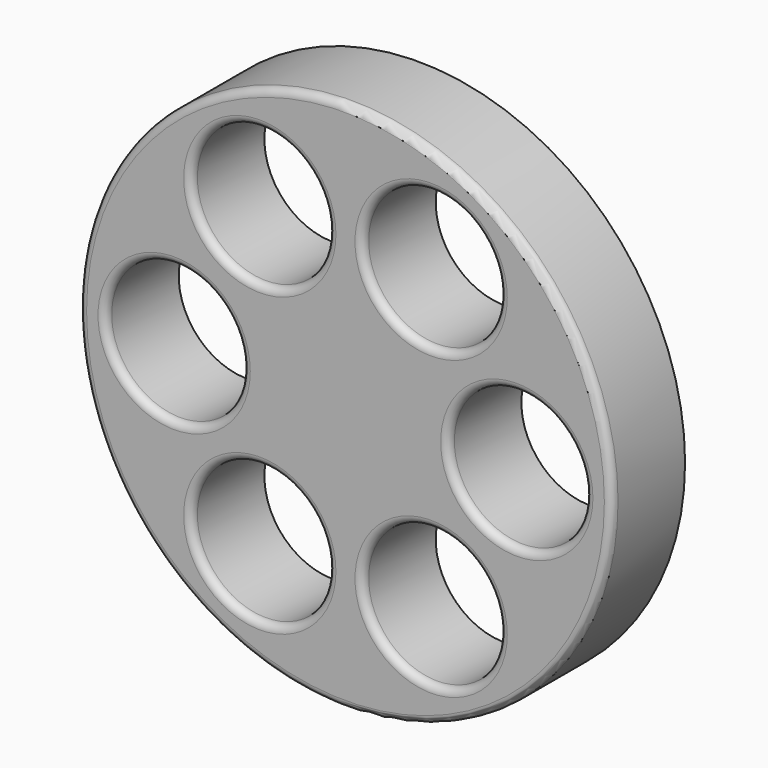
from build123d import *

# Parameters (mm, degrees)
F0_R     = 35
F0_R_2   = 9
F1_DEPTH = 12
F2_R     = 1


with BuildPart() as f1:
    # F0 (on Front) → F1 (new body)
    with BuildSketch(Plane.XZ):
        Circle(F0_R)
        with Locations((-11.25, -19.485572)):
            Circle(F0_R_2, mode=Mode.SUBTRACT)
        with Locations((11.25, -19.485572)):
            Circle(F0_R_2, mode=Mode.SUBTRACT)
        with Locations((-22.5, 0)):
            Circle(F0_R_2, mode=Mode.SUBTRACT)
        with Locations((-11.25, 19.485572)):
            Circle(F0_R_2, mode=Mode.SUBTRACT)
        with Locations((22.5, 0)):
            Circle(F0_R_2, mode=Mode.SUBTRACT)
        with Locations((11.25, 19.485572)):
            Circle(F0_R_2, mode=Mode.SUBTRACT)
    extrude(amount=F1_DEPTH)

    # F2
    f2_edges = [f1.edges().sort_by_distance(p)[0] for p in [
        (-35, -12, 0),
        (13.5, -12, 0),
        (2.25, -12, 19.485572),
        (-20.25, -12, 19.485572),
        (-31.5, -12, 0),
        (-20.25, -12, -19.485572),
        (2.25, -12, -19.485572),
    ]]
    fillet(f2_edges, radius=F2_R)


solid = f1.part
